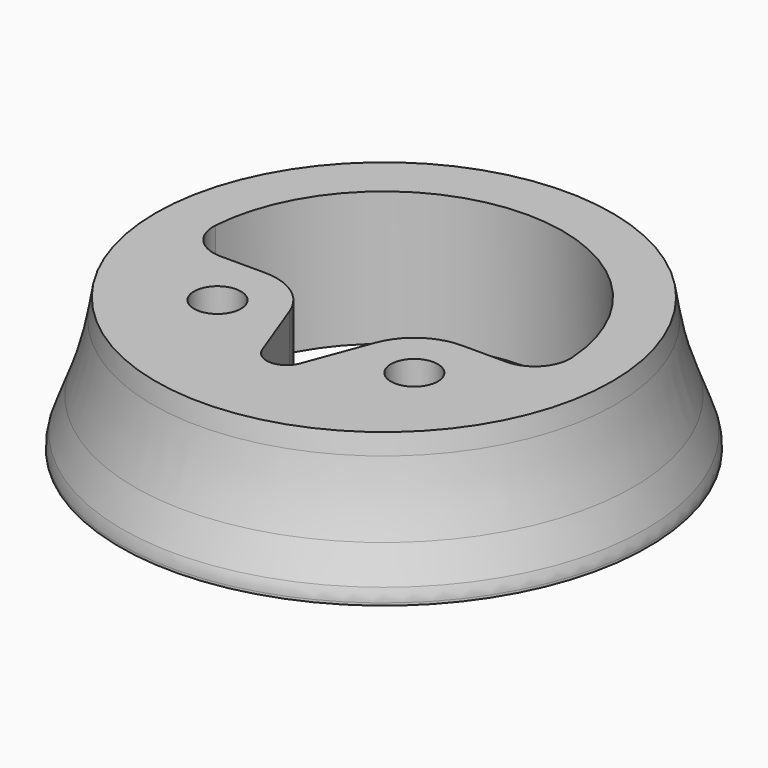
from build123d import *

# Parameters (mm, degrees)
F2_R     = 2.625
F3_DEPTH = 15.001
F4_R     = 5.075
F5_DEPTH = 12


with BuildPart() as f1:
    # F0 (on Front) → F1 (revolve)
    with BuildSketch(Plane.XZ):
        with BuildLine():
            Line((-29.5, 0.274662), (-29.5, 0))
            Line((-29.5, 0), (0, 0))
            Line((0, 0), (0, 15))
            Line((0, 15), (-25.5, 15))
            Line((-25.5, 15), (-25.861378, 12.831729))
            ThreePointArc((-25.861378, 12.831729), (-26.681762, 9.048734), (-27.863968, 5.362751))
            Line((-27.863968, 5.362751), (-29.245317, 1.679155))
            ThreePointArc((-29.245317, 1.679155), (-29.435814, 0.988361), (-29.5, 0.274662))
        make_face()
    revolve(axis=Axis((0, 0, 21.150352), (0, 0, 1)))

    # F2 (on face) → F3 (cut, through all)
    with BuildSketch(Plane.XY.offset(15)):
        with BuildLine():
            ThreePointArc((15.9604, -2.875), (18.886575, -1.602178), (19.9505, 1.40625))
            ThreePointArc((19.9505, 1.40625), (0, 20), (-19.9505, 1.40625))
            ThreePointArc((-19.9505, 1.40625), (-18.886575, -1.602178), (-15.9604, -2.875))
            Line((-15.9604, -2.875), (-11, -2.875))
            ThreePointArc((-11, -2.875), (-7.224013, -4.056421), (-4.794753, -7.179325))
            Line((-4.794753, -7.179325), (-2.107442, -14.364916))
            ThreePointArc((-2.107442, -14.364916), (0, -15.826762), (2.107442, -14.364916))
            Line((2.107442, -14.364916), (4.794753, -7.179325))
            ThreePointArc((4.794753, -7.179325), (7.224013, -4.056421), (11, -2.875))
            Line((11, -2.875), (15.9604, -2.875))
        make_face()
        with Locations((-11, -9.5)):
            Circle(F2_R)
        with Locations((11, -9.5)):
            Circle(F2_R)
    extrude(amount=-F3_DEPTH, mode=Mode.SUBTRACT)

    # F4 (on face) → F5 (cut)
    with BuildSketch(Plane(origin=(0, 0, 0), x_dir=(1, 0, 0), z_dir=(0, 0, -1))):
        with Locations((11, 9.5)):
            Circle(F4_R)
        with Locations((-11, 9.5)):
            Circle(F4_R)
    extrude(amount=-F5_DEPTH, mode=Mode.SUBTRACT)


solid = f1.part
